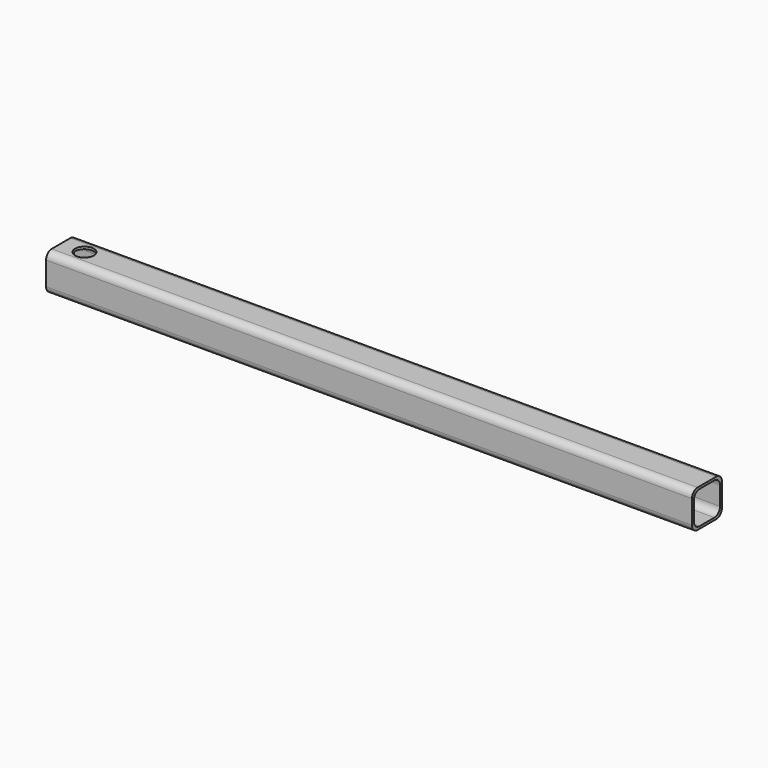
from build123d import *

# Parameters (mm, degrees)
F0_W     = 50.8
F0_H     = 50.8
F1_DEPTH = 876.3
F2_W     = 44.45
F2_H     = 44.45
F3_DEPTH = 876.3
F4_R     = 9.525
F5_R     = 12.7
F6_DEPTH = 50.8


with BuildPart() as f1:
    # F0 (on Right) → F1 (new body)
    with BuildSketch(Plane.YZ):
        with Locations((25.4, 25.4)):
            Rectangle(F0_W, F0_H)
    extrude(amount=-F1_DEPTH)

    # F2 (on face) → F3 (cut)
    with BuildSketch(Plane.YZ):
        with Locations((25.4, 25.4)):
            Rectangle(F2_W, F2_H)
    extrude(amount=-F3_DEPTH, mode=Mode.SUBTRACT)

    # F4
    f4_edges = [f1.edges().sort_by_distance(p)[0] for p in [
        (-438.15, 3.175, 3.175),
        (-438.15, 47.625, 3.175),
        (-438.15, 47.625, 47.625),
        (-438.15, 3.175, 47.625),
        (-438.15, 50.8, 0),
        (-438.15, 50.8, 50.8),
        (-438.15, 0, 50.8),
        (-438.15, 0, 0),
    ]]
    fillet(f4_edges, radius=F4_R)

    # F5 (on face) → F6 (cut)
    with BuildSketch(Plane.XY.offset(50.8)):
        with Locations((-844.55, 25.4)):
            Circle(F5_R)
    extrude(amount=-F6_DEPTH, mode=Mode.SUBTRACT)


solid = f1.part
